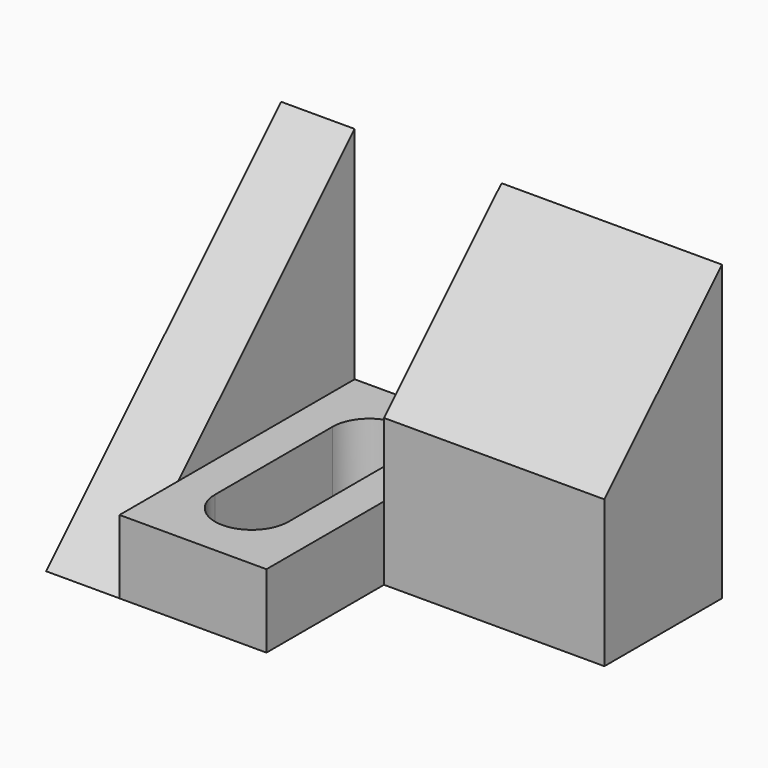
from build123d import *

# Parameters (mm, degrees)
F0_W      = 12.7
F0_H      = 6.35
F1_DEPTH  = 12.7
F3_DEPTH  = 6.351
F0_W_2    = 19.05
F0_H_2    = 12.7
F4_DEPTH  = 12.7
F6_DEPTH  = 12.7
F7_DEPTH  = 19.05
F9_DEPTH  = 19.05
F11_DEPTH = 6.35


with BuildPart() as f1:
    # F0 (on Front) → F1 (new body, symmetric)
    with BuildSketch(Plane.XZ):
        with Locations((12.7, 3.175)):
            Rectangle(F0_W, F0_H)
    extrude(amount=F1_DEPTH, both=True)

    # F2 (on face) → F3 (cut, through all)
    with BuildSketch(Plane.XY.offset(6.35)):
        with BuildLine():
            ThreePointArc((15.875, 6.35), (12.7, 9.525), (9.525, 6.35))
            Line((9.525, 6.35), (9.525, -6.35))
            ThreePointArc((9.525, -6.35), (12.7, -9.525), (15.875, -6.35))
            Line((15.875, -6.35), (15.875, 6.35))
        make_face()
    extrude(amount=-F3_DEPTH, mode=Mode.SUBTRACT)

    # F0 (on Front) → F4 (join, symmetric)
    with BuildSketch(Plane.XZ):
        Polygon((19.05, 6.35), (19.05, 0), (38.1, 0), (38.1, 12.7), (19.05, 12.7), align=None)
        with Locations((28.575, 19.05)):
            Rectangle(F0_W_2, F0_H_2)
    extrude(amount=F4_DEPTH, both=True)

    # F0 (on Front) → F6 (join, symmetric)
    with BuildSketch(Plane.XZ):
        Polygon((0, 25.4), (0, 0), (6.35, 0), (6.35, 6.35), (6.35, 25.4), align=None)
    extrude(amount=F6_DEPTH, both=True)

    # F5 (on face) → F7 (cut)
    with BuildSketch(Plane.YZ.offset(38.1)):
        Polygon((-12.7, 0), (12.7, 25.4), (-12.7, 25.4), align=None)
    extrude(amount=-F7_DEPTH, mode=Mode.SUBTRACT)

    # F8 (on face) → F9 (cut)
    with BuildSketch(Plane.YZ.offset(38.1)):
        Polygon((0, 0), (0, 12.7), (-12.7, 0), align=None)
    extrude(amount=-F9_DEPTH, mode=Mode.SUBTRACT)

    # F10 (on face) → F11 (cut)
    with BuildSketch(Plane(origin=(0, 0, 0), x_dir=(0, -1, 0), z_dir=(-1, 0, 0))):
        Polygon((12.7, 25.4), (-12.7, 25.4), (12.7, 0), align=None)
    extrude(amount=-F11_DEPTH, mode=Mode.SUBTRACT)


solid = f1.part
